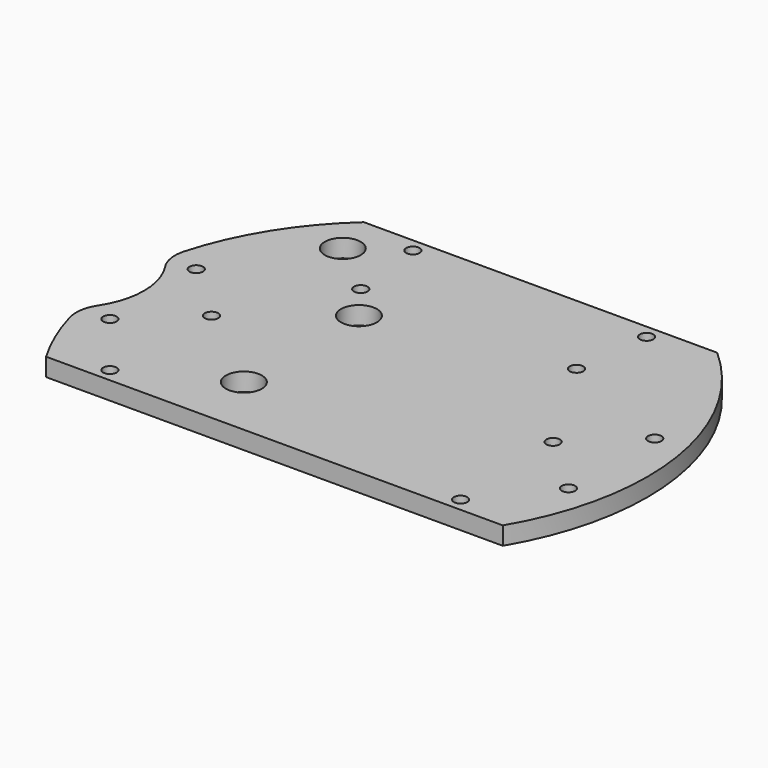
from build123d import *

# Parameters (mm, degrees)
CYLINDER1946_R     = 17
CYLINDER1946_DEPTH = 160
CYLINDER1910_R     = 1.5
CYLINDER1910_DEPTH = 100
CYLINDER1943_R     = 1.5
CYLINDER1943_DEPTH = 100
CYLINDER1944_R     = 1.5
CYLINDER1944_DEPTH = 32
CYLINDER1903_R     = 1.5
CYLINDER1903_DEPTH = 32
BOX555_W           = 200
BOX555_H           = 100
BOX555_DEPTH       = 100
BOX556_W           = 200
BOX556_H           = 100
BOX556_DEPTH       = 100
CYLINDER1907_R     = 4
CYLINDER1907_DEPTH = 100
CYLINDER1908_R     = 4
CYLINDER1908_DEPTH = 100
CYLINDER1912_R     = 4
CYLINDER1912_DEPTH = 100
CYLINDER1913_R     = 4
CYLINDER1913_DEPTH = 100
CYLINDER1914_R     = 4
CYLINDER1914_DEPTH = 100
CYLINDER1901_R     = 4
CYLINDER1901_DEPTH = 100
CYLINDER1902_R     = 4
CYLINDER1902_DEPTH = 100
CYLINDER1919_R     = 4
CYLINDER1919_DEPTH = 100
CYLINDER1927_R     = 1.5
CYLINDER1927_DEPTH = 100
CYLINDER1926_R     = 1.5
CYLINDER1926_DEPTH = 100
CYLINDER1891_R     = 1.5
CYLINDER1891_DEPTH = 100
CYLINDER1894_R     = 1.5
CYLINDER1894_DEPTH = 100
CYLINDER1917_R     = 1.5
CYLINDER1917_DEPTH = 100
CYLINDER1898_R     = 1.5
CYLINDER1898_DEPTH = 100
CYLINDER1920_R     = 1.5
CYLINDER1920_DEPTH = 100
CYLINDER1924_R     = 1.5
CYLINDER1924_DEPTH = 100
CYLINDER1925_R     = 59
CYLINDER1925_DEPTH = 4
FILLET029_R        = 8
FILLET027_R        = 8


with BuildPart() as obj1:
    # Cylinder1946 → Cylinder1946 (new body)
    with BuildSketch(Plane(origin=(-18, 0, -60), x_dir=(1, 0, 0), z_dir=(0, 0, 1))):
        Circle(CYLINDER1946_R)
    extrude(amount=CYLINDER1946_DEPTH)


with BuildPart() as obj2:
    # Cylinder1910 → Cylinder1910 (new body)
    with BuildSketch(Plane(origin=(14, 0, -60), x_dir=(1, 0, 0), z_dir=(0, 0, 1))):
        Circle(CYLINDER1910_R)
    extrude(amount=CYLINDER1910_DEPTH)


with BuildPart() as obj3:
    # Cylinder1943 → Cylinder1943 (new body)
    with BuildSketch(Plane(origin=(90, 0, -60), x_dir=(1, 0, 0), z_dir=(0, 0, 1))):
        Circle(CYLINDER1943_R)
    extrude(amount=CYLINDER1943_DEPTH)

    # Compound988: union obj2
    add(obj2.part)


with BuildPart() as obj4:
    # Cylinder1944 → Cylinder1944 (new body)
    with BuildSketch(Plane(origin=(78, 41, -42), x_dir=(1, 0, 0), z_dir=(0, 0, 1))):
        Circle(CYLINDER1944_R)
    extrude(amount=CYLINDER1944_DEPTH)


with BuildPart() as compound991:
    # Cylinder1903 → Cylinder1903 (new body)
    with BuildSketch(Plane(origin=(26, 41, -42), x_dir=(1, 0, 0), z_dir=(0, 0, 1))):
        Circle(CYLINDER1903_R)
    extrude(amount=CYLINDER1903_DEPTH)

    # Compound991: union obj4
    add(obj4.part)


with BuildPart() as krychle555:
    # Box555 → Box555 (new body)
    with BuildSketch(Plane(origin=(-60, 44, -90), x_dir=(1, 0, 0), z_dir=(0, 0, 1))):
        with Locations((100, 50)):
            Rectangle(BOX555_W, BOX555_H)
    extrude(amount=BOX555_DEPTH)


with BuildPart() as krychle556:
    # Box556 → Box556 (new body)
    with BuildSketch(Plane(origin=(-60, -130, -90), x_dir=(1, 0, 0), z_dir=(0, 0, 1))):
        with Locations((100, 50)):
            Rectangle(BOX556_W, BOX556_H)
    extrude(amount=BOX556_DEPTH)


with BuildPart() as obj5:
    # Cylinder1907 → Cylinder1907 (new body)
    with BuildSketch(Plane(origin=(-16, 34, -90), x_dir=(1, 0, 0), z_dir=(0, 0, 1))):
        Circle(CYLINDER1907_R)
    extrude(amount=CYLINDER1907_DEPTH)


with BuildPart() as obj6:
    # Cylinder1908 → Cylinder1908 (new body)
    with BuildSketch(Plane(origin=(-16, -34, -90), x_dir=(1, 0, 0), z_dir=(0, 0, 1))):
        Circle(CYLINDER1908_R)
    extrude(amount=CYLINDER1908_DEPTH)


with BuildPart() as obj7:
    # Cylinder1912 → Cylinder1912 (new body)
    with BuildSketch(Plane(origin=(34, -16, -90), x_dir=(1, 0, 0), z_dir=(0, 0, 1))):
        Circle(CYLINDER1912_R)
    extrude(amount=CYLINDER1912_DEPTH)


with BuildPart() as obj8:
    # Cylinder1913 → Cylinder1913 (new body)
    with BuildSketch(Plane(origin=(16, 34, -90), x_dir=(1, 0, 0), z_dir=(0, 0, 1))):
        Circle(CYLINDER1913_R)
    extrude(amount=CYLINDER1913_DEPTH)


with BuildPart() as obj9:
    # Cylinder1914 → Cylinder1914 (new body)
    with BuildSketch(Plane(origin=(16, -34, -90), x_dir=(1, 0, 0), z_dir=(0, 0, 1))):
        Circle(CYLINDER1914_R)
    extrude(amount=CYLINDER1914_DEPTH)


with BuildPart() as obj10:
    # Cylinder1901 → Cylinder1901 (new body)
    with BuildSketch(Plane(origin=(-34, 16, -90), x_dir=(1, 0, 0), z_dir=(0, 0, 1))):
        Circle(CYLINDER1901_R)
    extrude(amount=CYLINDER1901_DEPTH)


with BuildPart() as obj11:
    # Cylinder1902 → Cylinder1902 (new body)
    with BuildSketch(Plane(origin=(34, 16, -90), x_dir=(1, 0, 0), z_dir=(0, 0, 1))):
        Circle(CYLINDER1902_R)
    extrude(amount=CYLINDER1902_DEPTH)


with BuildPart() as obj12:
    # Cylinder1919 → Cylinder1919 (new body)
    with BuildSketch(Plane(origin=(-34, -16, -90), x_dir=(1, 0, 0), z_dir=(0, 0, 1))):
        Circle(CYLINDER1919_R)
    extrude(amount=CYLINDER1919_DEPTH)

    # Compound981: union obj5, obj6, obj7, obj8, obj9, obj10, obj11
    add(obj5.part)
    add(obj6.part)
    add(obj7.part)
    add(obj8.part)
    add(obj9.part)
    add(obj10.part)
    add(obj11.part)


with BuildPart() as obj13:
    # Cylinder1927 → Cylinder1927 (new body)
    with BuildSketch(Plane(origin=(103, 12, -60), x_dir=(1, 0, 0), z_dir=(0, 0, 1))):
        Circle(CYLINDER1927_R)
    extrude(amount=CYLINDER1927_DEPTH)


with BuildPart() as obj14:
    # Cylinder1926 → Cylinder1926 (new body)
    with BuildSketch(Plane(origin=(76, 24, -60), x_dir=(1, 0, 0), z_dir=(0, 0, 1))):
        Circle(CYLINDER1926_R)
    extrude(amount=CYLINDER1926_DEPTH)


with BuildPart() as obj15:
    # Cylinder1891 → Cylinder1891 (new body)
    with BuildSketch(Plane(origin=(91, -27, -60), x_dir=(1, 0, 0), z_dir=(0, 0, 1))):
        Circle(CYLINDER1891_R)
    extrude(amount=CYLINDER1891_DEPTH)


with BuildPart() as obj16:
    # Cylinder1894 → Cylinder1894 (new body)
    with BuildSketch(Plane(origin=(13, -27, -60), x_dir=(1, 0, 0), z_dir=(0, 0, 1))):
        Circle(CYLINDER1894_R)
    extrude(amount=CYLINDER1894_DEPTH)


with BuildPart() as obj17:
    # Cylinder1917 → Cylinder1917 (new body)
    with BuildSketch(Plane(origin=(28, 24, -60), x_dir=(1, 0, 0), z_dir=(0, 0, 1))):
        Circle(CYLINDER1917_R)
    extrude(amount=CYLINDER1917_DEPTH)


with BuildPart() as obj18:
    # Cylinder1898 → Cylinder1898 (new body)
    with BuildSketch(Plane(origin=(1, -12, -60), x_dir=(1, 0, 0), z_dir=(0, 0, 1))):
        Circle(CYLINDER1898_R)
    extrude(amount=CYLINDER1898_DEPTH)


with BuildPart() as obj19:
    # Cylinder1920 → Cylinder1920 (new body)
    with BuildSketch(Plane(origin=(1, 12, -60), x_dir=(1, 0, 0), z_dir=(0, 0, 1))):
        Circle(CYLINDER1920_R)
    extrude(amount=CYLINDER1920_DEPTH)


with BuildPart() as obj20:
    # Cylinder1924 → Cylinder1924 (new body)
    with BuildSketch(Plane(origin=(103, -12, -60), x_dir=(1, 0, 0), z_dir=(0, 0, 1))):
        Circle(CYLINDER1924_R)
    extrude(amount=CYLINDER1924_DEPTH)

    # Compound979: union obj13, obj14, obj15, obj16, obj17, obj18, obj19
    add(obj13.part)
    add(obj14.part)
    add(obj15.part)
    add(obj16.part)
    add(obj17.part)
    add(obj18.part)
    add(obj19.part)


with BuildPart() as fillet027:
    # Cylinder1925 → Cylinder1925 (new body)
    with BuildSketch(Plane(origin=(52, 0, -26), x_dir=(1, 0, 0), z_dir=(0, 0, 1))):
        Circle(CYLINDER1925_R)
    extrude(amount=CYLINDER1925_DEPTH)

    # Cut630: cut obj20
    add(obj20.part, mode=Mode.SUBTRACT)

    # Cut644: cut obj12
    add(obj12.part, mode=Mode.SUBTRACT)

    # Cut645: cut Krychle556
    add(krychle556.part, mode=Mode.SUBTRACT)

    # Cut646: cut Krychle555
    add(krychle555.part, mode=Mode.SUBTRACT)

    # Cut647: cut Compound991
    add(compound991.part, mode=Mode.SUBTRACT)

    # Cut651: cut obj3
    add(obj3.part, mode=Mode.SUBTRACT)

    # Cut636: cut obj1
    add(obj1.part, mode=Mode.SUBTRACT)

    # Fillet029
    fillet029_edges = [fillet027.edges().sort_by_distance(p)[0] for p in [
        (-5.8, -11.838919, -24),
    ]]
    fillet(fillet029_edges, radius=FILLET029_R)

    # Fillet027
    fillet027_edges = [fillet027.edges().sort_by_distance(p)[0] for p in [
        (-5.8, 11.838919, -24),
    ]]
    fillet(fillet027_edges, radius=FILLET027_R)


solid = fillet027.part
